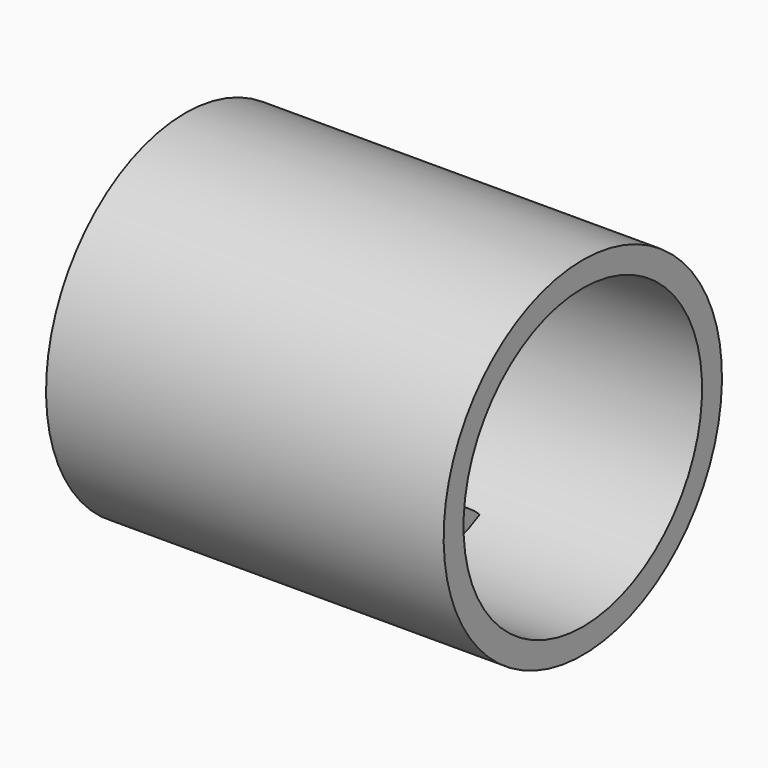
from build123d import *

# Parameters (mm, degrees)
F0_W     = 101.6
F0_H     = 6.35
F2_R     = 6.35
F3_DEPTH = 12.446


with BuildPart() as f1:
    # F0 (on Front) → F1 (revolve)
    with BuildSketch(Plane.XZ):
        with Locations((-9.9456323085, 41.275)):
            Rectangle(F0_W, F0_H)
    revolve(axis=Axis((-36.8506624945, 0, 0), (1, 0, 0)))

    # F2 (on Right) → F3 (join)
    with BuildSketch(Plane.YZ):
        with BuildLine():
            ThreePointArc((-7.5566940289, 20.9008851572), (0, 22.225), (7.5566940289, 20.9008851572))
            add(Edge.make_bspline(
                [(7.5566940289, 20.9008851572), (8.1307940533, 23.1498468847), (9.2859974924, 27.6739638996), (15.6936893767, 31.1495582912), (17.4205445494, 32.8370367229), (18.1234413691, 33.5134431675)],
                knots=[0, 0, 0, 0, 0.3703034477, 0.7423878019, 1, 1, 1, 1], degree=3))
            ThreePointArc((18.1234413691, 33.5134431675), (0, 38.1), (-18.1234413691, 33.5134431675))
            add(Edge.make_bspline(
                [(-7.5566940289, 20.9008851572), (-8.1307940533, 23.1498468847), (-9.2859974924, 27.6739638996), (-15.6936893767, 31.1495582912), (-17.4205445494, 32.8370367229), (-18.1234413691, 33.5134431675)],
                knots=[0, 0, 0, 0, 0.3703034477, 0.7423878019, 1, 1, 1, 1], degree=3))
        make_face()
        with BuildLine():
            ThreePointArc((7.5566940289, -20.9008851572), (18.1920057964, -12.7672060414), (22.225, 0))
            ThreePointArc((22.225, 0), (18.1920057964, 12.7672060414), (7.5566940289, 20.9008851572))
            ThreePointArc((7.5566940289, 20.9008851572), (0, 22.225), (-7.5566940289, 20.9008851572))
            ThreePointArc((-7.5566940289, 20.9008851572), (-22.225, 0), (-7.5566940289, -20.9008851572))
            ThreePointArc((-7.5566940289, -20.9008851572), (0, -22.225), (7.5566940289, -20.9008851572))
        make_face()
        Circle(F2_R, mode=Mode.SUBTRACT)
        with BuildLine():
            add(Edge.make_bspline(
                [(7.5566940289, -20.9008851572), (8.1307940533, -23.1498468847), (9.2859974924, -27.6739638996), (15.6936893767, -31.1495582912), (17.4205445494, -32.8370367229), (18.1234413691, -33.5134431675)],
                knots=[0, 0, 0, 0, 0.3703034477, 0.7423878019, 1, 1, 1, 1], degree=3))
            ThreePointArc((7.5566940289, -20.9008851572), (0, -22.225), (-7.5566940289, -20.9008851572))
            add(Edge.make_bspline(
                [(-7.5566940289, -20.9008851572), (-8.1307940533, -23.1498468847), (-9.2859974924, -27.6739638996), (-15.6936893767, -31.1495582912), (-17.4205445494, -32.8370367229), (-18.1234413691, -33.5134431675)],
                knots=[0, 0, 0, 0, 0.3703034477, 0.7423878019, 1, 1, 1, 1], degree=3))
            ThreePointArc((-18.1234413691, -33.5134431675), (0, -38.1), (18.1234413691, -33.5134431675))
        make_face()
    extrude(amount=-F3_DEPTH)


solid = f1.part
